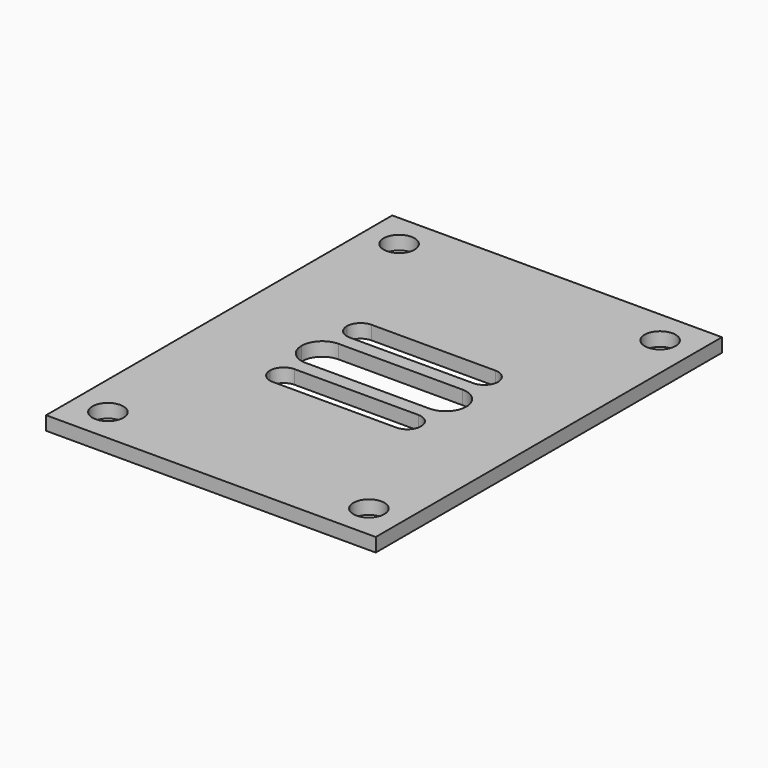
from build123d import *

# Parameters (mm, degrees)
F0_W     = 48
F0_H     = 63
F0_R     = 2.25
F1_DEPTH = 2


with BuildPart() as f1:
    # F0 (on Top) → F1 (new body)
    with BuildSketch(Plane.XY):
        Rectangle(F0_W, F0_H)
        with Locations((-19, -26.5)):
            Circle(F0_R, mode=Mode.SUBTRACT)
        with Locations((19, -26.5)):
            Circle(F0_R, mode=Mode.SUBTRACT)
        with BuildLine():
            Line((9, -9), (-9, -9))
            ThreePointArc((-9, -9), (-10.4142135624, -8.4142135624), (-11, -7))
            ThreePointArc((-11, -7), (-10.4142135624, -5.5857864376), (-9, -5))
            Line((-9, -5), (9, -5))
            ThreePointArc((9, -5), (10.4142135624, -5.5857864376), (11, -7))
            ThreePointArc((11, -7), (10.4142135624, -8.4142135624), (9, -9))
        make_face(mode=Mode.SUBTRACT)
        with Locations((-19, 26.5)):
            Circle(F0_R, mode=Mode.SUBTRACT)
        with BuildLine():
            ThreePointArc((-12, 0), (-11.1213203436, 2.1213203436), (-9, 3))
            Line((-9, 3), (9, 3))
            ThreePointArc((9, 3), (11.1213203436, 2.1213203436), (12, 0))
            ThreePointArc((12, 0), (11.1213203436, -2.1213203436), (9, -3))
            Line((9, -3), (-9, -3))
            ThreePointArc((-9, -3), (-11.1213203436, -2.1213203436), (-12, 0))
        make_face(mode=Mode.SUBTRACT)
        with BuildLine():
            ThreePointArc((-11, 7), (-10.4142135624, 8.4142135624), (-9, 9))
            Line((-9, 9), (9, 9))
            ThreePointArc((9, 9), (10.4142135624, 8.4142135624), (11, 7))
            ThreePointArc((11, 7), (10.4142135624, 5.5857864376), (9, 5))
            Line((9, 5), (-9, 5))
            ThreePointArc((-9, 5), (-10.4142135624, 5.5857864376), (-11, 7))
        make_face(mode=Mode.SUBTRACT)
        with Locations((19, 26.5)):
            Circle(F0_R, mode=Mode.SUBTRACT)
    extrude(amount=F1_DEPTH)


solid = f1.part
